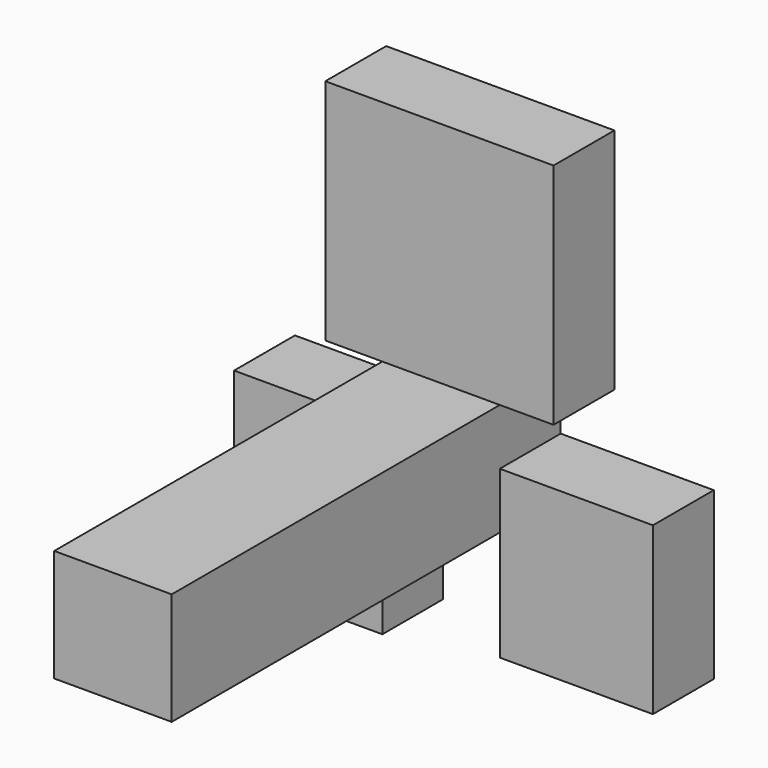
from build123d import *

# Parameters (mm, degrees)
F1_DEPTH = 25.4
F2_DEPTH = 162.33295


with BuildPart() as f1:
    # F0 (on Front) → F1 (new body)
    with BuildSketch(Plane.XZ):
        Polygon((-19.05, 0), (0, 0), (0, 76.2), (-38.1, 76.2), (-38.1, 0), align=None)
        Polygon((0, 76.2), (0, 0), (20.167289, 0), (38.1, 0), (38.1, 76.2), align=None)
        Polygon((-19.05, -37.496105), (-19.05, -18.748052), (-68.562508, -18.748052), (-68.562508, -80.16061), (-19.05, -80.16061), align=None)
        Polygon((71.273305, -18.748052), (20.167289, -18.748052), (20.167289, -37.496105), (20.167289, -74.269518), (71.273305, -74.269518), align=None)
    extrude(amount=F1_DEPTH)


with BuildPart() as f2:
    # F0 (on Front) → F2 (new body)
    with BuildSketch(Plane.XZ):
        Polygon((20.167289, 0), (0, 0), (-19.05, 0), (-19.05, -18.748052), (-19.05, -37.496105), (20.167289, -37.496105), (20.167289, -18.748052), align=None)
    extrude(amount=F2_DEPTH)


solid = Compound([f1.part, f2.part])
